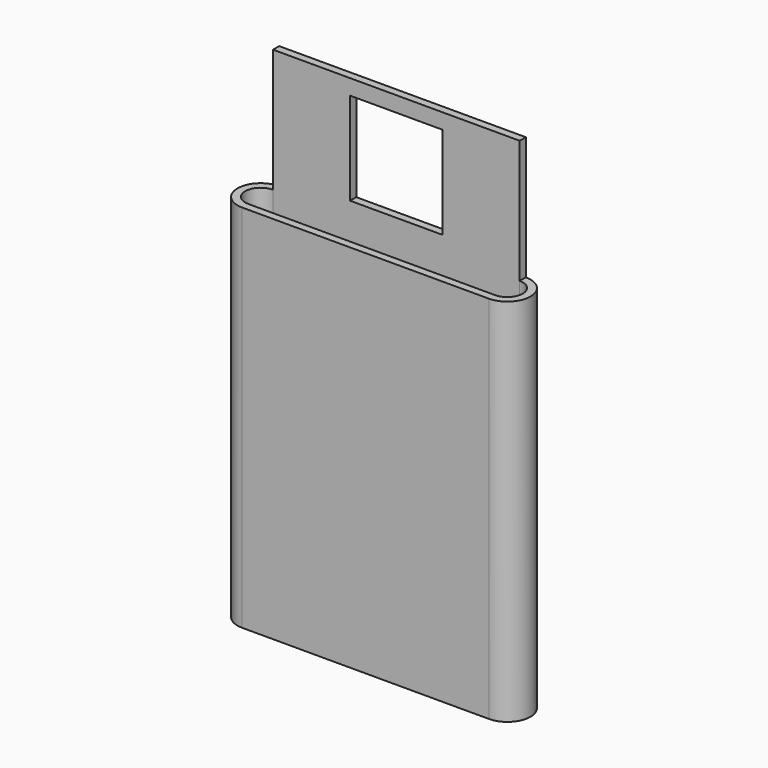
from build123d import *

# Parameters (mm, degrees)
F1_DEPTH = 12.7
F0_W     = 101.6
F0_H     = 3.175
F2_DEPTH = 152.4
F3_DEPTH = 50.8
F4_W     = 101.6
F4_H     = 3.175
F5_DEPTH = 50.8
F6_W     = 38.1
F6_H     = 38.1
F7_DEPTH = 25.4


with BuildPart() as f1:
    # F0 (on Top) → F1 (new body)
    with BuildSketch(Plane.XY):
        with BuildLine():
            Line((41.043708, 6.35), (-60.556292, 6.35))
            ThreePointArc((-60.556292, 6.35), (-66.906292, 0), (-60.556292, -6.35))
            Line((-60.556292, -6.35), (41.043708, -6.35))
            ThreePointArc((41.043708, -6.35), (47.393708, 0), (41.043708, 6.35))
        make_face()
    extrude(amount=F1_DEPTH)

    # F0 (on Top) → F2 (join)
    with BuildSketch(Plane.XY):
        with BuildLine():
            ThreePointArc((-60.556292, -6.35), (-66.906292, 0), (-60.556292, 6.35))
            Line((-60.556292, 6.35), (41.043708, 6.35))
            ThreePointArc((41.043708, 6.35), (47.393708, 0), (41.043708, -6.35))
            Line((41.043708, -6.35), (41.043708, -9.525))
            ThreePointArc((41.043708, -9.525), (50.568708, 0), (41.043708, 9.525))
            Line((41.043708, 9.525), (-60.556292, 9.525))
            ThreePointArc((-60.556292, 9.525), (-70.081292, 0), (-60.556292, -9.525))
            Line((-60.556292, -9.525), (-60.556292, -6.35))
        make_face()
        with Locations((-9.756292, -7.9375)):
            Rectangle(F0_W, F0_H)
    extrude(amount=F2_DEPTH)

    # F0 (on Top) → F3 (join)
    with BuildSketch(Plane.XY):
        with Locations((-9.756292, -7.9375)):
            Rectangle(F0_W, F0_H)
    extrude(amount=F3_DEPTH)

    # F4 (on face) → F5 (join)
    with BuildSketch(Plane.XY.offset(152.4)):
        with Locations((-9.756292, 7.9375)):
            Rectangle(F4_W, F4_H)
    extrude(amount=F5_DEPTH)

    # F6 (on face) → F7 (cut)
    with BuildSketch(Plane(origin=(0, 9.525, 0), x_dir=(-1, 0, 0), z_dir=(0, 1, 0))):
        with Locations((9.756292, 177.8)):
            Rectangle(F6_W, F6_H)
    extrude(amount=-F7_DEPTH, mode=Mode.SUBTRACT)


solid = f1.part
